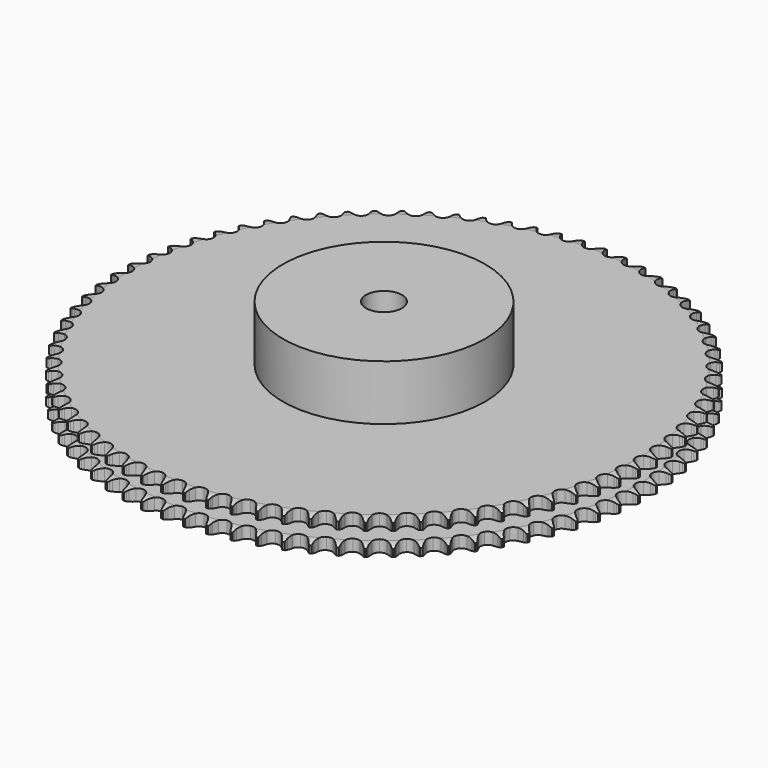
from build123d import *

# Parameters (mm, degrees)
PAD_DEPTH         = 15.4
SKETCH001_R       = 45
PAD001_DEPTH      = 40
SKETCH002_R       = 8
POCKET_DEPTH      = 0.001
POCKET_DEPTH_BACK = 40.001


with BuildPart() as part:
    # Sprocket → Pad (new body)
    with BuildSketch(Plane.XY):
        with BuildLine():
            ThreePointArc((-4.880885, 118.008917), (-4.408054, 117.285367), (-4.064703, 116.492143))
            Line((-4.064703, 116.492143), (-3.757636, 115.575814))
            ThreePointArc((-3.757636, 115.575814), (-3.272177, 114.423325), (-2.619252, 113.356748))
            ThreePointArc((-2.619252, 113.356748), (-1.471207, 112.370741), (0, 112.016106))
            ThreePointArc((0, 112.016106), (1.471207, 112.370741), (2.619252, 113.356748))
            ThreePointArc((2.619252, 113.356748), (3.272177, 114.423325), (3.757636, 115.575814))
            Line((3.757636, 115.575814), (4.064703, 116.492143))
            ThreePointArc((4.064703, 116.492143), (4.408054, 117.285367), (4.880885, 118.008917))
            ThreePointArc((4.880885, 118.008917), (5.292351, 117.248792), (5.569025, 116.429924))
            Line((5.569025, 116.429924), (5.799374, 115.491367))
            ThreePointArc((5.799374, 115.491367), (6.188002, 114.302726), (6.75062, 113.185874))
            ThreePointArc((6.75062, 113.185874), (7.81332, 112.108429), (9.250217, 111.633514))
            ThreePointArc((9.250217, 111.633514), (10.745684, 111.865447), (11.971232, 112.753281))
            Line((11.971232, 112.753281), (13.288977, 114.870761))
            ThreePointArc((13.288977, 114.870761), (13.466902, 115.320236), (13.670665, 115.758603))
            ThreePointArc((13.670665, 115.758603), (14.078347, 116.520764), (14.609313, 117.202796))
            ThreePointArc((14.609313, 117.202796), (14.956603, 116.411289), (15.16471, 115.572371))
            Line((15.16471, 115.572371), (15.316767, 114.617997))
            ThreePointArc((15.316767, 114.617997), (15.605911, 113.401323), (16.074379, 112.241825))
            ThreePointArc((16.074379, 112.241825), (17.044474, 111.080303), (18.437245, 110.488352))
            ThreePointArc((18.437245, 110.488352), (19.946758, 110.595998), (21.241436, 111.379595))
            Line((21.241436, 111.379595), (22.72954, 113.381024))
            ThreePointArc((22.72954, 113.381024), (22.943975, 113.814271), (23.183243, 114.234314))
            ThreePointArc((23.183243, 114.234314), (23.652471, 114.960206), (24.237945, 115.596062))
            ThreePointArc((24.237945, 115.596062), (24.518687, 114.778579), (24.656806, 113.92534))
            Line((24.656806, 113.92534), (24.729532, 112.961669))
            ThreePointArc((24.729532, 112.961669), (24.917216, 111.725274), (25.288333, 110.53105))
            ThreePointArc((25.288333, 110.53105), (26.159198, 109.293386), (27.498328, 108.588443))
            ThreePointArc((27.498328, 108.588443), (29.011575, 108.571066), (30.36654, 109.245074))
            Line((30.36654, 109.245074), (32.014838, 111.116779))
            ThreePointArc((32.014838, 111.116779), (32.264318, 111.530839), (32.537455, 111.929689))
            ThreePointArc((32.537455, 111.929689), (33.065024, 112.614353), (33.701008, 113.199689))
            ThreePointArc((33.701008, 113.199689), (33.913283, 112.361815), (33.980471, 111.500085))
            Line((33.980471, 111.500085), (33.973369, 110.5337))
            ThreePointArc((33.973369, 110.5337), (34.058311, 109.286028), (34.329543, 108.065237))
            ThreePointArc((34.329543, 108.065237), (35.095227, 106.759885), (36.37157, 105.946764))
            ThreePointArc((36.37157, 105.946764), (37.878213, 105.804484), (39.284209, 106.364297))
            Line((39.284209, 106.364297), (41.081442, 108.093495))
            ThreePointArc((41.081442, 108.093495), (41.364263, 108.485538), (41.669404, 108.860471))
            ThreePointArc((41.669404, 108.860471), (42.25171, 109.49923), (42.933858, 110.030048))
            ThreePointArc((42.933858, 110.030048), (43.076217, 109.177506), (43.072014, 108.31317))
            Line((43.072014, 108.31317), (42.985133, 107.350672))
            ThreePointArc((42.985133, 107.350672), (42.966754, 106.100248), (43.136246, 104.861228))
            ThreePointArc((43.136246, 104.861228), (43.79152, 103.497105), (44.996357, 102.581362))
            ThreePointArc((44.996357, 102.581362), (46.486105, 102.31515), (47.933528, 102.756945))
            Line((47.933528, 102.756945), (49.867418, 104.331822))
            ThreePointArc((49.867418, 104.331822), (50.181647, 104.699171), (50.516708, 105.047625))
            ThreePointArc((50.516708, 105.047625), (51.149774, 105.636116), (51.873426, 106.108789))
            ThreePointArc((51.873426, 106.108789), (51.944897, 105.247404), (51.869332, 104.386367))
            Line((51.869332, 104.386367), (51.703265, 103.434331))
            ThreePointArc((51.703265, 103.434331), (51.581689, 102.189696), (51.648286, 100.940911))
            ThreePointArc((51.648286, 100.940911), (52.188673, 99.527334), (53.313774, 98.515225))
            ThreePointArc((53.313774, 98.515225), (54.776449, 98.1269), (56.255412, 98.447659))
            Line((56.255412, 98.447659), (58.312749, 99.857457))
            ThreePointArc((58.312749, 99.857457), (58.656241, 100.197603), (59.018932, 100.517197))
            ThreePointArc((59.018932, 100.517197), (59.698432, 101.0514), (60.458647, 101.4627))
            ThreePointArc((60.458647, 101.4627), (60.458741, 100.598355), (60.31233, 99.746499))
            Line((60.31233, 99.746499), (60.068212, 98.811429))
            ThreePointArc((60.068212, 98.811429), (59.84427, 97.581084), (59.807515, 96.331065))
            ThreePointArc((59.807515, 96.331065), (60.229325, 94.877692), (61.267003, 93.776129))
            ThreePointArc((61.267003, 93.776129), (62.692615, 93.268344), (64.193014, 93.465875))
            Line((64.193014, 93.465875), (66.359745, 94.700965))
            ThreePointArc((66.359745, 94.700965), (66.730152, 95.011583), (67.117997, 95.300135))
            ThreePointArc((67.117997, 95.300135), (67.83929, 95.776401), (68.630873, 96.123518))
            ThreePointArc((68.630873, 96.123518), (68.55959, 95.262117), (68.343333, 94.425262))
            Line((68.343333, 94.425262), (68.022831, 93.513544))
            ThreePointArc((68.022831, 93.513544), (67.698053, 92.305894), (67.558198, 91.06318))
            ThreePointArc((67.558198, 91.06318), (67.858549, 89.579938), (68.801716, 88.396447))
            ThreePointArc((68.801716, 88.396447), (70.180527, 87.77267), (71.692114, 87.845624))
            Line((71.692114, 87.845624), (73.953437, 88.897569))
            ThreePointArc((73.953437, 88.897569), (74.348229, 89.176538), (74.758578, 89.432077))
            ThreePointArc((74.758578, 89.432077), (75.516737, 89.847152), (76.334281, 90.127715))
            ThreePointArc((76.334281, 90.127715), (76.192107, 89.275143), (75.907482, 88.459004))
            Line((75.907482, 88.459004), (75.512786, 87.576867))
            ThreePointArc((75.512786, 87.576867), (75.089391, 86.400162), (74.847391, 85.173241))
            ThreePointArc((74.847391, 85.173241), (75.02423, 83.670263), (75.866444, 82.412927))
            ThreePointArc((75.866444, 82.412927), (77.189034, 81.67742), (78.701483, 81.625299))
            Line((78.701483, 81.625299), (81.041951, 82.486912))
            ThreePointArc((81.041951, 82.486912), (81.458433, 82.732327), (81.888481, 82.953107))
            ThreePointArc((81.888481, 82.953107), (82.678328, 83.304155), (83.516248, 83.516248))
            ThreePointArc((83.516248, 83.516248), (83.304155, 82.678328), (82.953107, 81.888481))
            Line((82.953107, 81.888481), (82.486912, 81.041951))
            ThreePointArc((82.486912, 81.041951), (81.967791, 79.904229), (81.625299, 78.701483))
            ThreePointArc((81.625299, 78.701483), (81.67742, 77.189034), (82.412927, 75.866444))
            ThreePointArc((82.412927, 75.866444), (83.670263, 75.02423), (85.173241, 74.847391))
            Line((85.173241, 74.847391), (87.576867, 75.512786))
            ThreePointArc((87.576867, 75.512786), (88.012192, 75.72297), (88.459004, 75.907482))
            ThreePointArc((88.459004, 75.907482), (89.275143, 76.192107), (90.127715, 76.334281))
            ThreePointArc((90.127715, 76.334281), (89.847152, 75.516737), (89.432077, 74.758578))
            Line((89.432077, 74.758578), (88.897569, 73.953437))
            ThreePointArc((88.897569, 73.953437), (88.286268, 72.862469), (87.845624, 71.692114))
            ThreePointArc((87.845624, 71.692114), (87.77267, 70.180527), (88.396447, 68.801716))
            ThreePointArc((88.396447, 68.801716), (89.579938, 67.858549), (91.06318, 67.558198))
            Line((91.06318, 67.558198), (93.513544, 68.022831))
            ThreePointArc((93.513544, 68.022831), (93.964739, 68.196349), (94.425262, 68.343333))
            ThreePointArc((94.425262, 68.343333), (95.262117, 68.55959), (96.123518, 68.630873))
            ThreePointArc((96.123518, 68.630873), (95.776401, 67.83929), (95.300135, 67.117997))
            Line((95.300135, 67.117997), (94.700965, 66.359745))
            ThreePointArc((94.700965, 66.359745), (94.001661, 65.322984), (93.465875, 64.193014))
            ThreePointArc((93.465875, 64.193014), (93.268344, 62.692615), (93.776129, 61.267003))
            ThreePointArc((93.776129, 61.267003), (94.877692, 60.229325), (96.331065, 59.807515))
            Line((96.331065, 59.807515), (98.811429, 60.068212))
            ThreePointArc((98.811429, 60.068212), (99.275412, 60.203877), (99.746499, 60.31233))
            ThreePointArc((99.746499, 60.31233), (100.598355, 60.458741), (101.4627, 60.458647))
            ThreePointArc((101.4627, 60.458647), (101.0514, 59.698432), (100.517197, 59.018932))
            Line((100.517197, 59.018932), (99.857457, 58.312749))
            ThreePointArc((99.857457, 58.312749), (99.074927, 57.337278), (98.447659, 56.255412))
            ThreePointArc((98.447659, 56.255412), (98.1269, 54.776449), (98.515225, 53.313774))
            ThreePointArc((98.515225, 53.313774), (99.527334, 52.188673), (100.940911, 51.648286))
            Line((100.940911, 51.648286), (103.434331, 51.703265))
            ThreePointArc((103.434331, 51.703265), (103.907933, 51.800152), (104.386367, 51.869332))
            ThreePointArc((104.386367, 51.869332), (105.247404, 51.944897), (106.108789, 51.873426))
            ThreePointArc((106.108789, 51.873426), (105.636116, 51.149774), (105.047625, 50.516708))
            Line((105.047625, 50.516708), (104.331822, 49.867418))
            ThreePointArc((104.331822, 49.867418), (103.471411, 48.959899), (102.756945, 47.933528))
            ThreePointArc((102.756945, 47.933528), (102.31515, 46.486105), (102.581362, 44.996357))
            ThreePointArc((102.581362, 44.996357), (103.497105, 43.79152), (104.861228, 43.136246))
            Line((104.861228, 43.136246), (107.350672, 42.985133))
            ThreePointArc((107.350672, 42.985133), (107.830657, 43.042579), (108.31317, 43.072014))
            ThreePointArc((108.31317, 43.072014), (109.177506, 43.076217), (110.030048, 42.933858))
            ThreePointArc((110.030048, 42.933858), (109.49923, 42.25171), (108.860471, 41.669404))
            Line((108.860471, 41.669404), (108.093495, 41.081442))
            ThreePointArc((108.093495, 41.081442), (107.16108, 40.248075), (106.364297, 39.284209))
            ThreePointArc((106.364297, 39.284209), (105.804484, 37.878213), (105.946764, 36.37157))
            ThreePointArc((105.946764, 36.37157), (106.759885, 35.095227), (108.065237, 34.329543))
            Line((108.065237, 34.329543), (110.5337, 33.973369))
            ThreePointArc((110.5337, 33.973369), (111.016789, 33.990981), (111.500085, 33.980471))
            ThreePointArc((111.500085, 33.980471), (112.361815, 33.913283), (113.199689, 33.701008))
            ThreePointArc((113.199689, 33.701008), (112.614353, 33.065024), (111.929689, 32.537455))
            Line((111.929689, 32.537455), (111.116779, 32.014838))
            ThreePointArc((111.116779, 32.014838), (110.11873, 31.261315), (109.245074, 30.36654))
            ThreePointArc((109.245074, 30.36654), (108.571066, 29.011575), (108.588443, 27.498328))
            ThreePointArc((108.588443, 27.498328), (109.293386, 26.159198), (110.53105, 25.288333))
            Line((110.53105, 25.288333), (112.961669, 24.729532))
            ThreePointArc((112.961669, 24.729532), (113.444563, 24.707191), (113.92534, 24.656806))
            ThreePointArc((113.92534, 24.656806), (114.778579, 24.518687), (115.596062, 24.237945))
            ThreePointArc((115.596062, 24.237945), (114.960206, 23.652471), (114.234314, 23.183243))
            Line((114.234314, 23.183243), (113.381024, 22.72954))
            ThreePointArc((113.381024, 22.72954), (112.324158, 22.06101), (111.379595, 21.241436))
            ThreePointArc((111.379595, 21.241436), (110.595998, 19.946758), (110.488352, 18.437245))
            ThreePointArc((110.488352, 18.437245), (111.080303, 17.044474), (112.241825, 16.074379))
            Line((112.241825, 16.074379), (114.617997, 15.316767))
            ThreePointArc((114.617997, 15.316767), (115.097396, 15.254626), (115.572371, 15.16471))
            ThreePointArc((115.572371, 15.16471), (116.411289, 14.956603), (117.202796, 14.609313))
            ThreePointArc((117.202796, 14.609313), (116.520764, 14.078347), (115.758603, 13.670665))
            Line((115.758603, 13.670665), (114.870761, 13.288977))
            ThreePointArc((114.870761, 13.288977), (113.762298, 12.710005), (112.753281, 11.971232))
            ThreePointArc((112.753281, 11.971232), (111.865447, 10.745684), (111.633514, 9.250217))
            ThreePointArc((111.633514, 9.250217), (112.108429, 7.81332), (113.185874, 6.75062))
            Line((113.185874, 6.75062), (115.491367, 5.799374))
            ThreePointArc((115.491367, 5.799374), (115.963997, 5.697856), (116.429924, 5.569025))
            ThreePointArc((116.429924, 5.569025), (117.248792, 5.292351), (118.008917, 4.880885))
            ThreePointArc((118.008917, 4.880885), (117.285367, 4.408054), (116.492143, 4.064703))
            Line((116.492143, 4.064703), (115.575814, 3.757636))
            ThreePointArc((115.575814, 3.757636), (114.423325, 3.272177), (113.356748, 2.619252))
            ThreePointArc((113.356748, 2.619252), (112.370741, 1.471207), (112.016106, 0))
            ThreePointArc((112.016106, 0), (112.370741, -1.471207), (113.356748, -2.619252))
            Line((113.356748, -2.619252), (115.575814, -3.757636))
            ThreePointArc((115.575814, -3.757636), (116.038447, -3.897836), (116.492143, -4.064703))
            ThreePointArc((116.492143, -4.064703), (117.285367, -4.408054), (118.008917, -4.880885))
            ThreePointArc((118.008917, -4.880885), (117.248792, -5.292351), (116.429924, -5.569025))
            Line((116.429924, -5.569025), (115.491367, -5.799374))
            ThreePointArc((115.491367, -5.799374), (114.302726, -6.188002), (113.185874, -6.75062))
            ThreePointArc((113.185874, -6.75062), (112.108429, -7.81332), (111.633514, -9.250217))
            ThreePointArc((111.633514, -9.250217), (111.865447, -10.745684), (112.753281, -11.971232))
            Line((112.753281, -11.971232), (114.870761, -13.288977))
            ThreePointArc((114.870761, -13.288977), (115.320236, -13.466902), (115.758603, -13.670665))
            ThreePointArc((115.758603, -13.670665), (116.520764, -14.078347), (117.202796, -14.609313))
            ThreePointArc((117.202796, -14.609313), (116.411289, -14.956603), (115.572371, -15.16471))
            Line((115.572371, -15.16471), (114.617997, -15.316767))
            ThreePointArc((114.617997, -15.316767), (113.401323, -15.605911), (112.241825, -16.074379))
            ThreePointArc((112.241825, -16.074379), (111.080303, -17.044474), (110.488352, -18.437245))
            ThreePointArc((110.488352, -18.437245), (110.595998, -19.946758), (111.379595, -21.241436))
            Line((111.379595, -21.241436), (113.381024, -22.72954))
            ThreePointArc((113.381024, -22.72954), (113.814271, -22.943975), (114.234314, -23.183243))
            ThreePointArc((114.234314, -23.183243), (114.960206, -23.652471), (115.596062, -24.237945))
            ThreePointArc((115.596062, -24.237945), (114.778579, -24.518687), (113.92534, -24.656806))
            Line((113.92534, -24.656806), (112.961669, -24.729532))
            ThreePointArc((112.961669, -24.729532), (111.725274, -24.917216), (110.53105, -25.288333))
            ThreePointArc((110.53105, -25.288333), (109.293386, -26.159198), (108.588443, -27.498328))
            ThreePointArc((108.588443, -27.498328), (108.571066, -29.011575), (109.245074, -30.36654))
            Line((109.245074, -30.36654), (111.116779, -32.014838))
            ThreePointArc((111.116779, -32.014838), (111.530839, -32.264318), (111.929689, -32.537455))
            ThreePointArc((111.929689, -32.537455), (112.614353, -33.065024), (113.199689, -33.701008))
            ThreePointArc((113.199689, -33.701008), (112.361815, -33.913283), (111.500085, -33.980471))
            Line((111.500085, -33.980471), (110.5337, -33.973369))
            ThreePointArc((110.5337, -33.973369), (109.286028, -34.058311), (108.065237, -34.329543))
            ThreePointArc((108.065237, -34.329543), (106.759885, -35.095227), (105.946764, -36.37157))
            ThreePointArc((105.946764, -36.37157), (105.804484, -37.878213), (106.364297, -39.284209))
            Line((106.364297, -39.284209), (108.093495, -41.081442))
            ThreePointArc((108.093495, -41.081442), (108.485538, -41.364263), (108.860471, -41.669404))
            ThreePointArc((108.860471, -41.669404), (109.49923, -42.25171), (110.030048, -42.933858))
            ThreePointArc((110.030048, -42.933858), (109.177506, -43.076217), (108.31317, -43.072014))
            Line((108.31317, -43.072014), (107.350672, -42.985133))
            ThreePointArc((107.350672, -42.985133), (106.100248, -42.966754), (104.861228, -43.136246))
            ThreePointArc((104.861228, -43.136246), (103.497105, -43.79152), (102.581362, -44.996357))
            ThreePointArc((102.581362, -44.996357), (102.31515, -46.486105), (102.756945, -47.933528))
            Line((102.756945, -47.933528), (104.331822, -49.867418))
            ThreePointArc((104.331822, -49.867418), (104.699171, -50.181647), (105.047625, -50.516708))
            ThreePointArc((105.047625, -50.516708), (105.636116, -51.149774), (106.108789, -51.873426))
            ThreePointArc((106.108789, -51.873426), (105.247404, -51.944897), (104.386367, -51.869332))
            Line((104.386367, -51.869332), (103.434331, -51.703265))
            ThreePointArc((103.434331, -51.703265), (102.189696, -51.581689), (100.940911, -51.648286))
            ThreePointArc((100.940911, -51.648286), (99.527334, -52.188673), (98.515225, -53.313774))
            ThreePointArc((98.515225, -53.313774), (98.1269, -54.776449), (98.447659, -56.255412))
            Line((98.447659, -56.255412), (99.857457, -58.312749))
            ThreePointArc((99.857457, -58.312749), (100.197603, -58.656241), (100.517197, -59.018932))
            ThreePointArc((100.517197, -59.018932), (101.0514, -59.698432), (101.4627, -60.458647))
            ThreePointArc((101.4627, -60.458647), (100.598355, -60.458741), (99.746499, -60.31233))
            Line((99.746499, -60.31233), (98.811429, -60.068212))
            ThreePointArc((98.811429, -60.068212), (97.581084, -59.84427), (96.331065, -59.807515))
            ThreePointArc((96.331065, -59.807515), (94.877692, -60.229325), (93.776129, -61.267003))
            ThreePointArc((93.776129, -61.267003), (93.268344, -62.692615), (93.465875, -64.193014))
            Line((93.465875, -64.193014), (94.700965, -66.359745))
            ThreePointArc((94.700965, -66.359745), (95.011583, -66.730152), (95.300135, -67.117997))
            ThreePointArc((95.300135, -67.117997), (95.776401, -67.83929), (96.123518, -68.630873))
            ThreePointArc((96.123518, -68.630873), (95.262117, -68.55959), (94.425262, -68.343333))
            Line((94.425262, -68.343333), (93.513544, -68.022831))
            ThreePointArc((93.513544, -68.022831), (92.305894, -67.698053), (91.06318, -67.558198))
            ThreePointArc((91.06318, -67.558198), (89.579938, -67.858549), (88.396447, -68.801716))
            ThreePointArc((88.396447, -68.801716), (87.77267, -70.180527), (87.845624, -71.692114))
            Line((87.845624, -71.692114), (88.897569, -73.953437))
            ThreePointArc((88.897569, -73.953437), (89.176538, -74.348229), (89.432077, -74.758578))
            ThreePointArc((89.432077, -74.758578), (89.847152, -75.516737), (90.127715, -76.334281))
            ThreePointArc((90.127715, -76.334281), (89.275143, -76.192107), (88.459004, -75.907482))
            Line((88.459004, -75.907482), (87.576867, -75.512786))
            ThreePointArc((87.576867, -75.512786), (86.400162, -75.089391), (85.173241, -74.847391))
            ThreePointArc((85.173241, -74.847391), (83.670263, -75.02423), (82.412927, -75.866444))
            ThreePointArc((82.412927, -75.866444), (81.67742, -77.189034), (81.625299, -78.701483))
            Line((81.625299, -78.701483), (82.486912, -81.041951))
            ThreePointArc((82.486912, -81.041951), (82.732327, -81.458433), (82.953107, -81.888481))
            ThreePointArc((82.953107, -81.888481), (83.304155, -82.678328), (83.516248, -83.516248))
            ThreePointArc((83.516248, -83.516248), (82.678328, -83.304155), (81.888481, -82.953107))
            Line((81.888481, -82.953107), (81.041951, -82.486912))
            ThreePointArc((81.041951, -82.486912), (79.904229, -81.967791), (78.701483, -81.625299))
            ThreePointArc((78.701483, -81.625299), (77.189034, -81.67742), (75.866444, -82.412927))
            ThreePointArc((75.866444, -82.412927), (75.02423, -83.670263), (74.847391, -85.173241))
            Line((74.847391, -85.173241), (75.512786, -87.576867))
            ThreePointArc((75.512786, -87.576867), (75.72297, -88.012192), (75.907482, -88.459004))
            ThreePointArc((75.907482, -88.459004), (76.192107, -89.275143), (76.334281, -90.127715))
            ThreePointArc((76.334281, -90.127715), (75.516737, -89.847152), (74.758578, -89.432077))
            Line((74.758578, -89.432077), (73.953437, -88.897569))
            ThreePointArc((73.953437, -88.897569), (72.862469, -88.286268), (71.692114, -87.845624))
            ThreePointArc((71.692114, -87.845624), (70.180527, -87.77267), (68.801716, -88.396447))
            ThreePointArc((68.801716, -88.396447), (67.858549, -89.579938), (67.558198, -91.06318))
            Line((67.558198, -91.06318), (68.022831, -93.513544))
            ThreePointArc((68.022831, -93.513544), (68.196349, -93.964739), (68.343333, -94.425262))
            ThreePointArc((68.343333, -94.425262), (68.55959, -95.262117), (68.630873, -96.123518))
            ThreePointArc((68.630873, -96.123518), (67.83929, -95.776401), (67.117997, -95.300135))
            Line((67.117997, -95.300135), (66.359745, -94.700965))
            ThreePointArc((66.359745, -94.700965), (65.322984, -94.001661), (64.193014, -93.465875))
            ThreePointArc((64.193014, -93.465875), (62.692615, -93.268344), (61.267003, -93.776129))
            ThreePointArc((61.267003, -93.776129), (60.229325, -94.877692), (59.807515, -96.331065))
            Line((59.807515, -96.331065), (60.068212, -98.811429))
            ThreePointArc((60.068212, -98.811429), (60.203877, -99.275412), (60.31233, -99.746499))
            ThreePointArc((60.31233, -99.746499), (60.458741, -100.598355), (60.458647, -101.4627))
            ThreePointArc((60.458647, -101.4627), (59.698432, -101.0514), (59.018932, -100.517197))
            Line((59.018932, -100.517197), (58.312749, -99.857457))
            ThreePointArc((58.312749, -99.857457), (57.337278, -99.074927), (56.255412, -98.447659))
            ThreePointArc((56.255412, -98.447659), (54.776449, -98.1269), (53.313774, -98.515225))
            ThreePointArc((53.313774, -98.515225), (52.188673, -99.527334), (51.648286, -100.940911))
            Line((51.648286, -100.940911), (51.703265, -103.434331))
            ThreePointArc((51.703265, -103.434331), (51.800152, -103.907933), (51.869332, -104.386367))
            ThreePointArc((51.869332, -104.386367), (51.944897, -105.247404), (51.873426, -106.108789))
            ThreePointArc((51.873426, -106.108789), (51.149774, -105.636116), (50.516708, -105.047625))
            Line((50.516708, -105.047625), (49.867418, -104.331822))
            ThreePointArc((49.867418, -104.331822), (48.959899, -103.471411), (47.933528, -102.756945))
            ThreePointArc((47.933528, -102.756945), (46.486105, -102.31515), (44.996357, -102.581362))
            ThreePointArc((44.996357, -102.581362), (43.79152, -103.497105), (43.136246, -104.861228))
            Line((43.136246, -104.861228), (42.985133, -107.350672))
            ThreePointArc((42.985133, -107.350672), (43.042579, -107.830657), (43.072014, -108.31317))
            ThreePointArc((43.072014, -108.31317), (43.076217, -109.177506), (42.933858, -110.030048))
            ThreePointArc((42.933858, -110.030048), (42.25171, -109.49923), (41.669404, -108.860471))
            Line((41.669404, -108.860471), (41.081442, -108.093495))
            ThreePointArc((41.081442, -108.093495), (40.248075, -107.16108), (39.284209, -106.364297))
            ThreePointArc((39.284209, -106.364297), (37.878213, -105.804484), (36.37157, -105.946764))
            ThreePointArc((36.37157, -105.946764), (35.095227, -106.759885), (34.329543, -108.065237))
            Line((34.329543, -108.065237), (33.973369, -110.5337))
            ThreePointArc((33.973369, -110.5337), (33.990981, -111.016789), (33.980471, -111.500085))
            ThreePointArc((33.980471, -111.500085), (33.913283, -112.361815), (33.701008, -113.199689))
            ThreePointArc((33.701008, -113.199689), (33.065024, -112.614353), (32.537455, -111.929689))
            Line((32.537455, -111.929689), (32.014838, -111.116779))
            ThreePointArc((32.014838, -111.116779), (31.261315, -110.11873), (30.36654, -109.245074))
            ThreePointArc((30.36654, -109.245074), (29.011575, -108.571066), (27.498328, -108.588443))
            ThreePointArc((27.498328, -108.588443), (26.159198, -109.293386), (25.288333, -110.53105))
            Line((25.288333, -110.53105), (24.729532, -112.961669))
            ThreePointArc((24.729532, -112.961669), (24.707191, -113.444563), (24.656806, -113.92534))
            ThreePointArc((24.656806, -113.92534), (24.518687, -114.778579), (24.237945, -115.596062))
            ThreePointArc((24.237945, -115.596062), (23.652471, -114.960206), (23.183243, -114.234314))
            Line((23.183243, -114.234314), (22.72954, -113.381024))
            ThreePointArc((22.72954, -113.381024), (22.06101, -112.324158), (21.241436, -111.379595))
            ThreePointArc((21.241436, -111.379595), (19.946758, -110.595998), (18.437245, -110.488352))
            ThreePointArc((18.437245, -110.488352), (17.044474, -111.080303), (16.074379, -112.241825))
            Line((16.074379, -112.241825), (15.316767, -114.617997))
            ThreePointArc((15.316767, -114.617997), (15.254626, -115.097396), (15.16471, -115.572371))
            ThreePointArc((15.16471, -115.572371), (14.956603, -116.411289), (14.609313, -117.202796))
            ThreePointArc((14.609313, -117.202796), (14.078347, -116.520764), (13.670665, -115.758603))
            Line((13.670665, -115.758603), (13.288977, -114.870761))
            ThreePointArc((13.288977, -114.870761), (12.710005, -113.762298), (11.971232, -112.753281))
            ThreePointArc((11.971232, -112.753281), (10.745684, -111.865447), (9.250217, -111.633514))
            ThreePointArc((9.250217, -111.633514), (7.81332, -112.108429), (6.75062, -113.185874))
            Line((6.75062, -113.185874), (5.799374, -115.491367))
            ThreePointArc((5.799374, -115.491367), (5.697856, -115.963997), (5.569025, -116.429924))
            ThreePointArc((5.569025, -116.429924), (5.292351, -117.248792), (4.880885, -118.008917))
            ThreePointArc((4.880885, -118.008917), (4.408054, -117.285367), (4.064703, -116.492143))
            Line((4.064703, -116.492143), (3.757636, -115.575814))
            ThreePointArc((3.757636, -115.575814), (3.272177, -114.423325), (2.619252, -113.356748))
            ThreePointArc((2.619252, -113.356748), (1.471207, -112.370741), (0, -112.016106))
            ThreePointArc((0, -112.016106), (-1.471207, -112.370741), (-2.619252, -113.356748))
            Line((-2.619252, -113.356748), (-3.757636, -115.575814))
            ThreePointArc((-3.757636, -115.575814), (-3.897836, -116.038447), (-4.064703, -116.492143))
            ThreePointArc((-4.064703, -116.492143), (-4.408054, -117.285367), (-4.880885, -118.008917))
            ThreePointArc((-4.880885, -118.008917), (-5.292351, -117.248792), (-5.569025, -116.429924))
            Line((-5.569025, -116.429924), (-5.799374, -115.491367))
            ThreePointArc((-5.799374, -115.491367), (-6.188002, -114.302726), (-6.75062, -113.185874))
            ThreePointArc((-6.75062, -113.185874), (-7.81332, -112.108429), (-9.250217, -111.633514))
            ThreePointArc((-9.250217, -111.633514), (-10.745684, -111.865447), (-11.971232, -112.753281))
            Line((-11.971232, -112.753281), (-13.288977, -114.870761))
            ThreePointArc((-13.288977, -114.870761), (-13.466902, -115.320236), (-13.670665, -115.758603))
            ThreePointArc((-13.670665, -115.758603), (-14.078347, -116.520764), (-14.609313, -117.202796))
            ThreePointArc((-14.609313, -117.202796), (-14.956603, -116.411289), (-15.16471, -115.572371))
            Line((-15.16471, -115.572371), (-15.316767, -114.617997))
            ThreePointArc((-15.316767, -114.617997), (-15.605911, -113.401323), (-16.074379, -112.241825))
            ThreePointArc((-16.074379, -112.241825), (-17.044474, -111.080303), (-18.437245, -110.488352))
            ThreePointArc((-18.437245, -110.488352), (-19.946758, -110.595998), (-21.241436, -111.379595))
            Line((-21.241436, -111.379595), (-22.72954, -113.381024))
            ThreePointArc((-22.72954, -113.381024), (-22.943975, -113.814271), (-23.183243, -114.234314))
            ThreePointArc((-23.183243, -114.234314), (-23.652471, -114.960206), (-24.237945, -115.596062))
            ThreePointArc((-24.237945, -115.596062), (-24.518687, -114.778579), (-24.656806, -113.92534))
            Line((-24.656806, -113.92534), (-24.729532, -112.961669))
            ThreePointArc((-24.729532, -112.961669), (-24.917216, -111.725274), (-25.288333, -110.53105))
            ThreePointArc((-25.288333, -110.53105), (-26.159198, -109.293386), (-27.498328, -108.588443))
            ThreePointArc((-27.498328, -108.588443), (-29.011575, -108.571066), (-30.36654, -109.245074))
            Line((-30.36654, -109.245074), (-32.014838, -111.116779))
            ThreePointArc((-32.014838, -111.116779), (-32.264318, -111.530839), (-32.537455, -111.929689))
            ThreePointArc((-32.537455, -111.929689), (-33.065024, -112.614353), (-33.701008, -113.199689))
            ThreePointArc((-33.701008, -113.199689), (-33.913283, -112.361815), (-33.980471, -111.500085))
            Line((-33.980471, -111.500085), (-33.973369, -110.5337))
            ThreePointArc((-33.973369, -110.5337), (-34.058311, -109.286028), (-34.329543, -108.065237))
            ThreePointArc((-34.329543, -108.065237), (-35.095227, -106.759885), (-36.37157, -105.946764))
            ThreePointArc((-36.37157, -105.946764), (-37.878213, -105.804484), (-39.284209, -106.364297))
            Line((-39.284209, -106.364297), (-41.081442, -108.093495))
            ThreePointArc((-41.081442, -108.093495), (-41.364263, -108.485538), (-41.669404, -108.860471))
            ThreePointArc((-41.669404, -108.860471), (-42.25171, -109.49923), (-42.933858, -110.030048))
            ThreePointArc((-42.933858, -110.030048), (-43.076217, -109.177506), (-43.072014, -108.31317))
            Line((-43.072014, -108.31317), (-42.985133, -107.350672))
            ThreePointArc((-42.985133, -107.350672), (-42.966754, -106.100248), (-43.136246, -104.861228))
            ThreePointArc((-43.136246, -104.861228), (-43.79152, -103.497105), (-44.996357, -102.581362))
            ThreePointArc((-44.996357, -102.581362), (-46.486105, -102.31515), (-47.933528, -102.756945))
            Line((-47.933528, -102.756945), (-49.867418, -104.331822))
            ThreePointArc((-49.867418, -104.331822), (-50.181647, -104.699171), (-50.516708, -105.047625))
            ThreePointArc((-50.516708, -105.047625), (-51.149774, -105.636116), (-51.873426, -106.108789))
            ThreePointArc((-51.873426, -106.108789), (-51.944897, -105.247404), (-51.869332, -104.386367))
            Line((-51.869332, -104.386367), (-51.703265, -103.434331))
            ThreePointArc((-51.703265, -103.434331), (-51.581689, -102.189696), (-51.648286, -100.940911))
            ThreePointArc((-51.648286, -100.940911), (-52.188673, -99.527334), (-53.313774, -98.515225))
            ThreePointArc((-53.313774, -98.515225), (-54.776449, -98.1269), (-56.255412, -98.447659))
            Line((-56.255412, -98.447659), (-58.312749, -99.857457))
            ThreePointArc((-58.312749, -99.857457), (-58.656241, -100.197603), (-59.018932, -100.517197))
            ThreePointArc((-59.018932, -100.517197), (-59.698432, -101.0514), (-60.458647, -101.4627))
            ThreePointArc((-60.458647, -101.4627), (-60.458741, -100.598355), (-60.31233, -99.746499))
            Line((-60.31233, -99.746499), (-60.068212, -98.811429))
            ThreePointArc((-60.068212, -98.811429), (-59.84427, -97.581084), (-59.807515, -96.331065))
            ThreePointArc((-59.807515, -96.331065), (-60.229325, -94.877692), (-61.267003, -93.776129))
            ThreePointArc((-61.267003, -93.776129), (-62.692615, -93.268344), (-64.193014, -93.465875))
            Line((-64.193014, -93.465875), (-66.359745, -94.700965))
            ThreePointArc((-66.359745, -94.700965), (-66.730152, -95.011583), (-67.117997, -95.300135))
            ThreePointArc((-67.117997, -95.300135), (-67.83929, -95.776401), (-68.630873, -96.123518))
            ThreePointArc((-68.630873, -96.123518), (-68.55959, -95.262117), (-68.343333, -94.425262))
            Line((-68.343333, -94.425262), (-68.022831, -93.513544))
            ThreePointArc((-68.022831, -93.513544), (-67.698053, -92.305894), (-67.558198, -91.06318))
            ThreePointArc((-67.558198, -91.06318), (-67.858549, -89.579938), (-68.801716, -88.396447))
            ThreePointArc((-68.801716, -88.396447), (-70.180527, -87.77267), (-71.692114, -87.845624))
            Line((-71.692114, -87.845624), (-73.953437, -88.897569))
            ThreePointArc((-73.953437, -88.897569), (-74.348229, -89.176538), (-74.758578, -89.432077))
            ThreePointArc((-74.758578, -89.432077), (-75.516737, -89.847152), (-76.334281, -90.127715))
            ThreePointArc((-76.334281, -90.127715), (-76.192107, -89.275143), (-75.907482, -88.459004))
            Line((-75.907482, -88.459004), (-75.512786, -87.576867))
            ThreePointArc((-75.512786, -87.576867), (-75.089391, -86.400162), (-74.847391, -85.173241))
            ThreePointArc((-74.847391, -85.173241), (-75.02423, -83.670263), (-75.866444, -82.412927))
            ThreePointArc((-75.866444, -82.412927), (-77.189034, -81.67742), (-78.701483, -81.625299))
            Line((-78.701483, -81.625299), (-81.041951, -82.486912))
            ThreePointArc((-81.041951, -82.486912), (-81.458433, -82.732327), (-81.888481, -82.953107))
            ThreePointArc((-81.888481, -82.953107), (-82.678328, -83.304155), (-83.516248, -83.516248))
            ThreePointArc((-83.516248, -83.516248), (-83.304155, -82.678328), (-82.953107, -81.888481))
            Line((-82.953107, -81.888481), (-82.486912, -81.041951))
            ThreePointArc((-82.486912, -81.041951), (-81.967791, -79.904229), (-81.625299, -78.701483))
            ThreePointArc((-81.625299, -78.701483), (-81.67742, -77.189034), (-82.412927, -75.866444))
            ThreePointArc((-82.412927, -75.866444), (-83.670263, -75.02423), (-85.173241, -74.847391))
            Line((-85.173241, -74.847391), (-87.576867, -75.512786))
            ThreePointArc((-87.576867, -75.512786), (-88.012192, -75.72297), (-88.459004, -75.907482))
            ThreePointArc((-88.459004, -75.907482), (-89.275143, -76.192107), (-90.127715, -76.334281))
            ThreePointArc((-90.127715, -76.334281), (-89.847152, -75.516737), (-89.432077, -74.758578))
            Line((-89.432077, -74.758578), (-88.897569, -73.953437))
            ThreePointArc((-88.897569, -73.953437), (-88.286268, -72.862469), (-87.845624, -71.692114))
            ThreePointArc((-87.845624, -71.692114), (-87.77267, -70.180527), (-88.396447, -68.801716))
            ThreePointArc((-88.396447, -68.801716), (-89.579938, -67.858549), (-91.06318, -67.558198))
            Line((-91.06318, -67.558198), (-93.513544, -68.022831))
            ThreePointArc((-93.513544, -68.022831), (-93.964739, -68.196349), (-94.425262, -68.343333))
            ThreePointArc((-94.425262, -68.343333), (-95.262117, -68.55959), (-96.123518, -68.630873))
            ThreePointArc((-96.123518, -68.630873), (-95.776401, -67.83929), (-95.300135, -67.117997))
            Line((-95.300135, -67.117997), (-94.700965, -66.359745))
            ThreePointArc((-94.700965, -66.359745), (-94.001661, -65.322984), (-93.465875, -64.193014))
            ThreePointArc((-93.465875, -64.193014), (-93.268344, -62.692615), (-93.776129, -61.267003))
            ThreePointArc((-93.776129, -61.267003), (-94.877692, -60.229325), (-96.331065, -59.807515))
            Line((-96.331065, -59.807515), (-98.811429, -60.068212))
            ThreePointArc((-98.811429, -60.068212), (-99.275412, -60.203877), (-99.746499, -60.31233))
            ThreePointArc((-99.746499, -60.31233), (-100.598355, -60.458741), (-101.4627, -60.458647))
            ThreePointArc((-101.4627, -60.458647), (-101.0514, -59.698432), (-100.517197, -59.018932))
            Line((-100.517197, -59.018932), (-99.857457, -58.312749))
            ThreePointArc((-99.857457, -58.312749), (-99.074927, -57.337278), (-98.447659, -56.255412))
            ThreePointArc((-98.447659, -56.255412), (-98.1269, -54.776449), (-98.515225, -53.313774))
            ThreePointArc((-98.515225, -53.313774), (-99.527334, -52.188673), (-100.940911, -51.648286))
            Line((-100.940911, -51.648286), (-103.434331, -51.703265))
            ThreePointArc((-103.434331, -51.703265), (-103.907933, -51.800152), (-104.386367, -51.869332))
            ThreePointArc((-104.386367, -51.869332), (-105.247404, -51.944897), (-106.108789, -51.873426))
            ThreePointArc((-106.108789, -51.873426), (-105.636116, -51.149774), (-105.047625, -50.516708))
            Line((-105.047625, -50.516708), (-104.331822, -49.867418))
            ThreePointArc((-104.331822, -49.867418), (-103.471411, -48.959899), (-102.756945, -47.933528))
            ThreePointArc((-102.756945, -47.933528), (-102.31515, -46.486105), (-102.581362, -44.996357))
            ThreePointArc((-102.581362, -44.996357), (-103.497105, -43.79152), (-104.861228, -43.136246))
            Line((-104.861228, -43.136246), (-107.350672, -42.985133))
            ThreePointArc((-107.350672, -42.985133), (-107.830657, -43.042579), (-108.31317, -43.072014))
            ThreePointArc((-108.31317, -43.072014), (-109.177506, -43.076217), (-110.030048, -42.933858))
            ThreePointArc((-110.030048, -42.933858), (-109.49923, -42.25171), (-108.860471, -41.669404))
            Line((-108.860471, -41.669404), (-108.093495, -41.081442))
            ThreePointArc((-108.093495, -41.081442), (-107.16108, -40.248075), (-106.364297, -39.284209))
            ThreePointArc((-106.364297, -39.284209), (-105.804484, -37.878213), (-105.946764, -36.37157))
            ThreePointArc((-105.946764, -36.37157), (-106.759885, -35.095227), (-108.065237, -34.329543))
            Line((-108.065237, -34.329543), (-110.5337, -33.973369))
            ThreePointArc((-110.5337, -33.973369), (-111.016789, -33.990981), (-111.500085, -33.980471))
            ThreePointArc((-111.500085, -33.980471), (-112.361815, -33.913283), (-113.199689, -33.701008))
            ThreePointArc((-113.199689, -33.701008), (-112.614353, -33.065024), (-111.929689, -32.537455))
            Line((-111.929689, -32.537455), (-111.116779, -32.014838))
            ThreePointArc((-111.116779, -32.014838), (-110.11873, -31.261315), (-109.245074, -30.36654))
            ThreePointArc((-109.245074, -30.36654), (-108.571066, -29.011575), (-108.588443, -27.498328))
            ThreePointArc((-108.588443, -27.498328), (-109.293386, -26.159198), (-110.53105, -25.288333))
            Line((-110.53105, -25.288333), (-112.961669, -24.729532))
            ThreePointArc((-112.961669, -24.729532), (-113.444563, -24.707191), (-113.92534, -24.656806))
            ThreePointArc((-113.92534, -24.656806), (-114.778579, -24.518687), (-115.596062, -24.237945))
            ThreePointArc((-115.596062, -24.237945), (-114.960206, -23.652471), (-114.234314, -23.183243))
            Line((-114.234314, -23.183243), (-113.381024, -22.72954))
            ThreePointArc((-113.381024, -22.72954), (-112.324158, -22.06101), (-111.379595, -21.241436))
            ThreePointArc((-111.379595, -21.241436), (-110.595998, -19.946758), (-110.488352, -18.437245))
            ThreePointArc((-110.488352, -18.437245), (-111.080303, -17.044474), (-112.241825, -16.074379))
            Line((-112.241825, -16.074379), (-114.617997, -15.316767))
            ThreePointArc((-114.617997, -15.316767), (-115.097396, -15.254626), (-115.572371, -15.16471))
            ThreePointArc((-115.572371, -15.16471), (-116.411289, -14.956603), (-117.202796, -14.609313))
            ThreePointArc((-117.202796, -14.609313), (-116.520764, -14.078347), (-115.758603, -13.670665))
            Line((-115.758603, -13.670665), (-114.870761, -13.288977))
            ThreePointArc((-114.870761, -13.288977), (-113.762298, -12.710005), (-112.753281, -11.971232))
            ThreePointArc((-112.753281, -11.971232), (-111.865447, -10.745684), (-111.633514, -9.250217))
            ThreePointArc((-111.633514, -9.250217), (-112.108429, -7.81332), (-113.185874, -6.75062))
            Line((-113.185874, -6.75062), (-115.491367, -5.799374))
            ThreePointArc((-115.491367, -5.799374), (-115.963997, -5.697856), (-116.429924, -5.569025))
            ThreePointArc((-116.429924, -5.569025), (-117.248792, -5.292351), (-118.008917, -4.880885))
            ThreePointArc((-118.008917, -4.880885), (-117.285367, -4.408054), (-116.492143, -4.064703))
            Line((-116.492143, -4.064703), (-115.575814, -3.757636))
            ThreePointArc((-115.575814, -3.757636), (-114.423325, -3.272177), (-113.356748, -2.619252))
            ThreePointArc((-113.356748, -2.619252), (-112.370741, -1.471207), (-112.016106, 0))
            ThreePointArc((-112.016106, 0), (-112.370741, 1.471207), (-113.356748, 2.619252))
            Line((-113.356748, 2.619252), (-115.575814, 3.757636))
            ThreePointArc((-115.575814, 3.757636), (-116.038447, 3.897836), (-116.492143, 4.064703))
            ThreePointArc((-116.492143, 4.064703), (-117.285367, 4.408054), (-118.008917, 4.880885))
            ThreePointArc((-118.008917, 4.880885), (-117.248792, 5.292351), (-116.429924, 5.569025))
            Line((-116.429924, 5.569025), (-115.491367, 5.799374))
            ThreePointArc((-115.491367, 5.799374), (-114.302726, 6.188002), (-113.185874, 6.75062))
            ThreePointArc((-113.185874, 6.75062), (-112.108429, 7.81332), (-111.633514, 9.250217))
            ThreePointArc((-111.633514, 9.250217), (-111.865447, 10.745684), (-112.753281, 11.971232))
            Line((-112.753281, 11.971232), (-114.870761, 13.288977))
            ThreePointArc((-114.870761, 13.288977), (-115.320236, 13.466902), (-115.758603, 13.670665))
            ThreePointArc((-115.758603, 13.670665), (-116.520764, 14.078347), (-117.202796, 14.609313))
            ThreePointArc((-117.202796, 14.609313), (-116.411289, 14.956603), (-115.572371, 15.16471))
            Line((-115.572371, 15.16471), (-114.617997, 15.316767))
            ThreePointArc((-114.617997, 15.316767), (-113.401323, 15.605911), (-112.241825, 16.074379))
            ThreePointArc((-112.241825, 16.074379), (-111.080303, 17.044474), (-110.488352, 18.437245))
            ThreePointArc((-110.488352, 18.437245), (-110.595998, 19.946758), (-111.379595, 21.241436))
            Line((-111.379595, 21.241436), (-113.381024, 22.72954))
            ThreePointArc((-113.381024, 22.72954), (-113.814271, 22.943975), (-114.234314, 23.183243))
            ThreePointArc((-114.234314, 23.183243), (-114.960206, 23.652471), (-115.596062, 24.237945))
            ThreePointArc((-115.596062, 24.237945), (-114.778579, 24.518687), (-113.92534, 24.656806))
            Line((-113.92534, 24.656806), (-112.961669, 24.729532))
            ThreePointArc((-112.961669, 24.729532), (-111.725274, 24.917216), (-110.53105, 25.288333))
            ThreePointArc((-110.53105, 25.288333), (-109.293386, 26.159198), (-108.588443, 27.498328))
            ThreePointArc((-108.588443, 27.498328), (-108.571066, 29.011575), (-109.245074, 30.36654))
            Line((-109.245074, 30.36654), (-111.116779, 32.014838))
            ThreePointArc((-111.116779, 32.014838), (-111.530839, 32.264318), (-111.929689, 32.537455))
            ThreePointArc((-111.929689, 32.537455), (-112.614353, 33.065024), (-113.199689, 33.701008))
            ThreePointArc((-113.199689, 33.701008), (-112.361815, 33.913283), (-111.500085, 33.980471))
            Line((-111.500085, 33.980471), (-110.5337, 33.973369))
            ThreePointArc((-110.5337, 33.973369), (-109.286028, 34.058311), (-108.065237, 34.329543))
            ThreePointArc((-108.065237, 34.329543), (-106.759885, 35.095227), (-105.946764, 36.37157))
            ThreePointArc((-105.946764, 36.37157), (-105.804484, 37.878213), (-106.364297, 39.284209))
            Line((-106.364297, 39.284209), (-108.093495, 41.081442))
            ThreePointArc((-108.093495, 41.081442), (-108.485538, 41.364263), (-108.860471, 41.669404))
            ThreePointArc((-108.860471, 41.669404), (-109.49923, 42.25171), (-110.030048, 42.933858))
            ThreePointArc((-110.030048, 42.933858), (-109.177506, 43.076217), (-108.31317, 43.072014))
            Line((-108.31317, 43.072014), (-107.350672, 42.985133))
            ThreePointArc((-107.350672, 42.985133), (-106.100248, 42.966754), (-104.861228, 43.136246))
            ThreePointArc((-104.861228, 43.136246), (-103.497105, 43.79152), (-102.581362, 44.996357))
            ThreePointArc((-102.581362, 44.996357), (-102.31515, 46.486105), (-102.756945, 47.933528))
            Line((-102.756945, 47.933528), (-104.331822, 49.867418))
            ThreePointArc((-104.331822, 49.867418), (-104.699171, 50.181647), (-105.047625, 50.516708))
            ThreePointArc((-105.047625, 50.516708), (-105.636116, 51.149774), (-106.108789, 51.873426))
            ThreePointArc((-106.108789, 51.873426), (-105.247404, 51.944897), (-104.386367, 51.869332))
            Line((-104.386367, 51.869332), (-103.434331, 51.703265))
            ThreePointArc((-103.434331, 51.703265), (-102.189696, 51.581689), (-100.940911, 51.648286))
            ThreePointArc((-100.940911, 51.648286), (-99.527334, 52.188673), (-98.515225, 53.313774))
            ThreePointArc((-98.515225, 53.313774), (-98.1269, 54.776449), (-98.447659, 56.255412))
            Line((-98.447659, 56.255412), (-99.857457, 58.312749))
            ThreePointArc((-99.857457, 58.312749), (-100.197603, 58.656241), (-100.517197, 59.018932))
            ThreePointArc((-100.517197, 59.018932), (-101.0514, 59.698432), (-101.4627, 60.458647))
            ThreePointArc((-101.4627, 60.458647), (-100.598355, 60.458741), (-99.746499, 60.31233))
            Line((-99.746499, 60.31233), (-98.811429, 60.068212))
            ThreePointArc((-98.811429, 60.068212), (-97.581084, 59.84427), (-96.331065, 59.807515))
            ThreePointArc((-96.331065, 59.807515), (-94.877692, 60.229325), (-93.776129, 61.267003))
            ThreePointArc((-93.776129, 61.267003), (-93.268344, 62.692615), (-93.465875, 64.193014))
            Line((-93.465875, 64.193014), (-94.700965, 66.359745))
            ThreePointArc((-94.700965, 66.359745), (-95.011583, 66.730152), (-95.300135, 67.117997))
            ThreePointArc((-95.300135, 67.117997), (-95.776401, 67.83929), (-96.123518, 68.630873))
            ThreePointArc((-96.123518, 68.630873), (-95.262117, 68.55959), (-94.425262, 68.343333))
            Line((-94.425262, 68.343333), (-93.513544, 68.022831))
            ThreePointArc((-93.513544, 68.022831), (-92.305894, 67.698053), (-91.06318, 67.558198))
            ThreePointArc((-91.06318, 67.558198), (-89.579938, 67.858549), (-88.396447, 68.801716))
            ThreePointArc((-88.396447, 68.801716), (-87.77267, 70.180527), (-87.845624, 71.692114))
            Line((-87.845624, 71.692114), (-88.897569, 73.953437))
            ThreePointArc((-88.897569, 73.953437), (-89.176538, 74.348229), (-89.432077, 74.758578))
            ThreePointArc((-89.432077, 74.758578), (-89.847152, 75.516737), (-90.127715, 76.334281))
            ThreePointArc((-90.127715, 76.334281), (-89.275143, 76.192107), (-88.459004, 75.907482))
            Line((-88.459004, 75.907482), (-87.576867, 75.512786))
            ThreePointArc((-87.576867, 75.512786), (-86.400162, 75.089391), (-85.173241, 74.847391))
            ThreePointArc((-85.173241, 74.847391), (-83.670263, 75.02423), (-82.412927, 75.866444))
            ThreePointArc((-82.412927, 75.866444), (-81.67742, 77.189034), (-81.625299, 78.701483))
            Line((-81.625299, 78.701483), (-82.486912, 81.041951))
            ThreePointArc((-82.486912, 81.041951), (-82.732327, 81.458433), (-82.953107, 81.888481))
            ThreePointArc((-82.953107, 81.888481), (-83.304155, 82.678328), (-83.516248, 83.516248))
            ThreePointArc((-83.516248, 83.516248), (-82.678328, 83.304155), (-81.888481, 82.953107))
            Line((-81.888481, 82.953107), (-81.041951, 82.486912))
            ThreePointArc((-81.041951, 82.486912), (-79.904229, 81.967791), (-78.701483, 81.625299))
            ThreePointArc((-78.701483, 81.625299), (-77.189034, 81.67742), (-75.866444, 82.412927))
            ThreePointArc((-75.866444, 82.412927), (-75.02423, 83.670263), (-74.847391, 85.173241))
            Line((-74.847391, 85.173241), (-75.512786, 87.576867))
            ThreePointArc((-75.512786, 87.576867), (-75.72297, 88.012192), (-75.907482, 88.459004))
            ThreePointArc((-75.907482, 88.459004), (-76.192107, 89.275143), (-76.334281, 90.127715))
            ThreePointArc((-76.334281, 90.127715), (-75.516737, 89.847152), (-74.758578, 89.432077))
            Line((-74.758578, 89.432077), (-73.953437, 88.897569))
            ThreePointArc((-73.953437, 88.897569), (-72.862469, 88.286268), (-71.692114, 87.845624))
            ThreePointArc((-71.692114, 87.845624), (-70.180527, 87.77267), (-68.801716, 88.396447))
            ThreePointArc((-68.801716, 88.396447), (-67.858549, 89.579938), (-67.558198, 91.06318))
            Line((-67.558198, 91.06318), (-68.022831, 93.513544))
            ThreePointArc((-68.022831, 93.513544), (-68.196349, 93.964739), (-68.343333, 94.425262))
            ThreePointArc((-68.343333, 94.425262), (-68.55959, 95.262117), (-68.630873, 96.123518))
            ThreePointArc((-68.630873, 96.123518), (-67.83929, 95.776401), (-67.117997, 95.300135))
            Line((-67.117997, 95.300135), (-66.359745, 94.700965))
            ThreePointArc((-66.359745, 94.700965), (-65.322984, 94.001661), (-64.193014, 93.465875))
            ThreePointArc((-64.193014, 93.465875), (-62.692615, 93.268344), (-61.267003, 93.776129))
            ThreePointArc((-61.267003, 93.776129), (-60.229325, 94.877692), (-59.807515, 96.331065))
            Line((-59.807515, 96.331065), (-60.068212, 98.811429))
            ThreePointArc((-60.068212, 98.811429), (-60.203877, 99.275412), (-60.31233, 99.746499))
            ThreePointArc((-60.31233, 99.746499), (-60.458741, 100.598355), (-60.458647, 101.4627))
            ThreePointArc((-60.458647, 101.4627), (-59.698432, 101.0514), (-59.018932, 100.517197))
            Line((-59.018932, 100.517197), (-58.312749, 99.857457))
            ThreePointArc((-58.312749, 99.857457), (-57.337278, 99.074927), (-56.255412, 98.447659))
            ThreePointArc((-56.255412, 98.447659), (-54.776449, 98.1269), (-53.313774, 98.515225))
            ThreePointArc((-53.313774, 98.515225), (-52.188673, 99.527334), (-51.648286, 100.940911))
            Line((-51.648286, 100.940911), (-51.703265, 103.434331))
            ThreePointArc((-51.703265, 103.434331), (-51.800152, 103.907933), (-51.869332, 104.386367))
            ThreePointArc((-51.869332, 104.386367), (-51.944897, 105.247404), (-51.873426, 106.108789))
            ThreePointArc((-51.873426, 106.108789), (-51.149774, 105.636116), (-50.516708, 105.047625))
            Line((-50.516708, 105.047625), (-49.867418, 104.331822))
            ThreePointArc((-49.867418, 104.331822), (-48.959899, 103.471411), (-47.933528, 102.756945))
            ThreePointArc((-47.933528, 102.756945), (-46.486105, 102.31515), (-44.996357, 102.581362))
            ThreePointArc((-44.996357, 102.581362), (-43.79152, 103.497105), (-43.136246, 104.861228))
            Line((-43.136246, 104.861228), (-42.985133, 107.350672))
            ThreePointArc((-42.985133, 107.350672), (-43.042579, 107.830657), (-43.072014, 108.31317))
            ThreePointArc((-43.072014, 108.31317), (-43.076217, 109.177506), (-42.933858, 110.030048))
            ThreePointArc((-42.933858, 110.030048), (-42.25171, 109.49923), (-41.669404, 108.860471))
            Line((-41.669404, 108.860471), (-41.081442, 108.093495))
            ThreePointArc((-41.081442, 108.093495), (-40.248075, 107.16108), (-39.284209, 106.364297))
            ThreePointArc((-39.284209, 106.364297), (-37.878213, 105.804484), (-36.37157, 105.946764))
            ThreePointArc((-36.37157, 105.946764), (-35.095227, 106.759885), (-34.329543, 108.065237))
            Line((-34.329543, 108.065237), (-33.973369, 110.5337))
            ThreePointArc((-33.973369, 110.5337), (-33.990981, 111.016789), (-33.980471, 111.500085))
            ThreePointArc((-33.980471, 111.500085), (-33.913283, 112.361815), (-33.701008, 113.199689))
            ThreePointArc((-33.701008, 113.199689), (-33.065024, 112.614353), (-32.537455, 111.929689))
            Line((-32.537455, 111.929689), (-32.014838, 111.116779))
            ThreePointArc((-32.014838, 111.116779), (-31.261315, 110.11873), (-30.36654, 109.245074))
            ThreePointArc((-30.36654, 109.245074), (-29.011575, 108.571066), (-27.498328, 108.588443))
            ThreePointArc((-27.498328, 108.588443), (-26.159198, 109.293386), (-25.288333, 110.53105))
            Line((-25.288333, 110.53105), (-24.729532, 112.961669))
            ThreePointArc((-24.729532, 112.961669), (-24.707191, 113.444563), (-24.656806, 113.92534))
            ThreePointArc((-24.656806, 113.92534), (-24.518687, 114.778579), (-24.237945, 115.596062))
            ThreePointArc((-24.237945, 115.596062), (-23.652471, 114.960206), (-23.183243, 114.234314))
            Line((-23.183243, 114.234314), (-22.72954, 113.381024))
            ThreePointArc((-22.72954, 113.381024), (-22.06101, 112.324158), (-21.241436, 111.379595))
            ThreePointArc((-21.241436, 111.379595), (-19.946758, 110.595998), (-18.437245, 110.488352))
            ThreePointArc((-18.437245, 110.488352), (-17.044474, 111.080303), (-16.074379, 112.241825))
            Line((-16.074379, 112.241825), (-15.316767, 114.617997))
            ThreePointArc((-15.316767, 114.617997), (-15.254626, 115.097396), (-15.16471, 115.572371))
            ThreePointArc((-15.16471, 115.572371), (-14.956603, 116.411289), (-14.609313, 117.202796))
            ThreePointArc((-14.609313, 117.202796), (-14.078347, 116.520764), (-13.670665, 115.758603))
            Line((-13.670665, 115.758603), (-13.288977, 114.870761))
            ThreePointArc((-13.288977, 114.870761), (-12.710005, 113.762298), (-11.971232, 112.753281))
            ThreePointArc((-11.971232, 112.753281), (-10.745684, 111.865447), (-9.250217, 111.633514))
            ThreePointArc((-9.250217, 111.633514), (-7.81332, 112.108429), (-6.75062, 113.185874))
            Line((-6.75062, 113.185874), (-5.799374, 115.491367))
            ThreePointArc((-5.799374, 115.491367), (-5.697856, 115.963997), (-5.569025, 116.429924))
            ThreePointArc((-5.569025, 116.429924), (-5.292351, 117.248792), (-4.880885, 118.008917))
        make_face()
    extrude(amount=PAD_DEPTH)

    # Sketch → Groove (revolve, cut)
    with BuildSketch(Plane.XZ):
        with BuildLine():
            ThreePointArc((113.091101, 0), (115.327169, 0.253206), (117.45, 1))
            Line((117.45, 1), (117.45, 4.2))
            ThreePointArc((117.45, 4.2), (115.327169, 4.946794), (113.091101, 5.2))
            Line((45, 5.2), (113.091101, 5.2))
            Line((45, 10.2), (45, 5.2))
            Line((113.091101, 10.2), (45, 10.2))
            ThreePointArc((113.091101, 10.2), (115.327169, 10.453206), (117.45, 11.2))
            Line((117.45, 11.2), (117.45, 14.4))
            ThreePointArc((117.45, 14.4), (115.327169, 15.146794), (113.091101, 15.4))
            Line((113.091101, 15.4), (123.091101, 15.4))
            Line((123.091101, 15.4), (123.091101, 0))
            Line((113.091101, 0), (123.091101, 0))
        make_face()
    revolve(axis=Axis((0, 0, 0), (0, 0, 1)), mode=Mode.SUBTRACT)

    # Sketch001 → Pad001 (join)
    with BuildSketch(Plane.XY):
        Circle(SKETCH001_R)
    extrude(amount=PAD001_DEPTH)

    # Sketch002 → Pocket (cut, two sides)
    with BuildSketch(Plane.XY) as pocket_sk:
        Circle(SKETCH002_R)
    extrude(amount=-POCKET_DEPTH, mode=Mode.SUBTRACT)
    extrude(pocket_sk.sketch, amount=POCKET_DEPTH_BACK, mode=Mode.SUBTRACT)


solid = part.part
